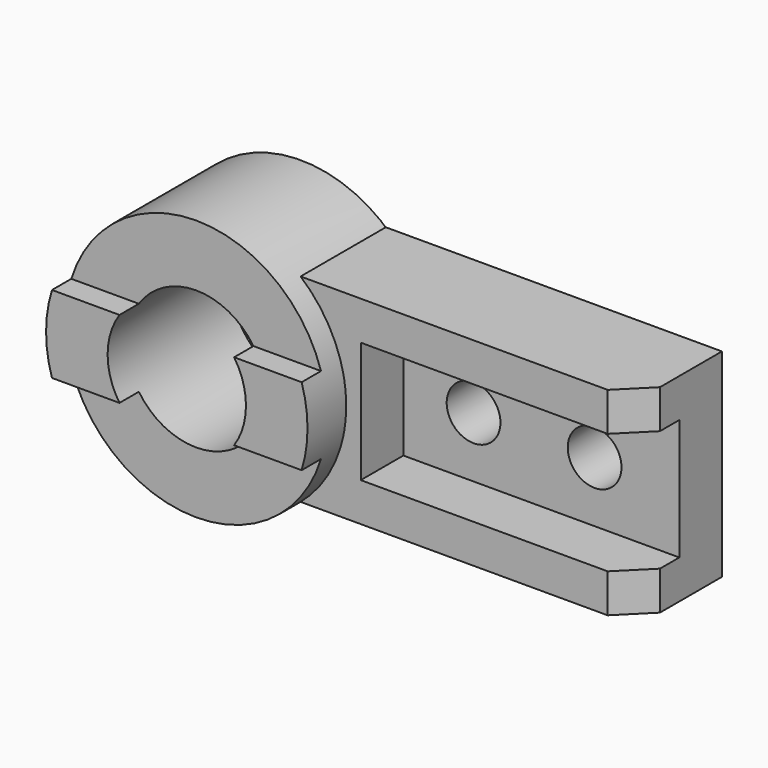
from build123d import *

# Parameters (mm, degrees)
F0_R           = 54
F0_R_2         = 28.575
F1_DEPTH       = 64
F2_R           = 11.1
F3_DEPTH       = 64
F4_W           = 20
F4_H           = 82
F5_DEPTH       = 174.001
F6_W           = 10
F6_H           = 39.3963404596
F7_DEPTH       = 54.001
F7_DEPTH_BACK  = 174.001
F9_START       = 60
F8_W           = 22
F8_H           = 50
F9_DEPTH       = 114
F11_DEPTH      = 54.001
F11_DEPTH_BACK = 54.001


with BuildPart() as f1:
    # F0 (on Front) → F1 (new body)
    with BuildSketch(Plane.XZ):
        Circle(F0_R)
        Circle(F0_R_2, mode=Mode.SUBTRACT)
    extrude(amount=F1_DEPTH)

    # F6 (on Right) → F7 (cut, two sides)
    with BuildSketch(Plane.YZ) as f7_sk:
        Polygon((-64.0240318326, 54.6036595404), (-64, 16), (-54, 16), (-54, 54.6036595404), align=None)
        with Locations((-59, -35.6981702298)):
            Rectangle(F6_W, F6_H)
    extrude(amount=-F7_DEPTH, mode=Mode.SUBTRACT)
    extrude(f7_sk.sketch, amount=F7_DEPTH_BACK, mode=Mode.SUBTRACT)


with BuildPart() as f3:
    # F2 (on Front) → F3 (new body)
    with BuildSketch(Plane.XZ):
        with BuildLine():
            Line((174, 41), (35.1425667816, 41))
            ThreePointArc((35.1425667816, 41), (54, 0), (35.1425667816, -41))
            Line((35.1425667816, -41), (174, -41))
            Line((174, -41), (174, 41))
        make_face()
        with Locations((89, 0)):
            Circle(F2_R, mode=Mode.SUBTRACT)
        with Locations((139, 0)):
            Circle(F2_R, mode=Mode.SUBTRACT)
    extrude(amount=F3_DEPTH)

    # F4 (on Right) → F5 (cut, through all)
    with BuildSketch(Plane.YZ):
        with Locations((-54, 0)):
            Rectangle(F4_W, F4_H)
    extrude(amount=F5_DEPTH, mode=Mode.SUBTRACT)

    # F8 (on Right) → F9 (cut)
    with BuildSketch(Plane.YZ.offset(F9_START)):
        with Locations((-33, 0)):
            Rectangle(F8_W, F8_H)
    extrude(amount=F9_DEPTH, mode=Mode.SUBTRACT)

    # F10 (on Top) → F11 (cut, two sides)
    with BuildSketch(Plane.XY) as f11_sk:
        Polygon((162, -44), (174, -44), (174, -32), align=None)
    extrude(amount=F11_DEPTH, mode=Mode.SUBTRACT)
    extrude(f11_sk.sketch, amount=-F11_DEPTH_BACK, mode=Mode.SUBTRACT)


solid = Compound([f1.part, f3.part])
